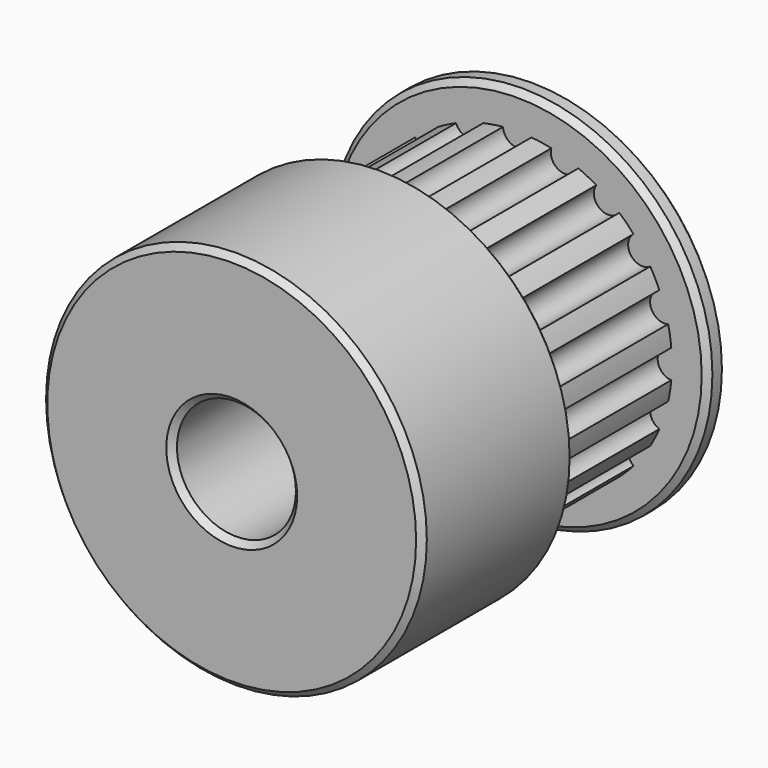
from build123d import *

# Parameters (mm, degrees)
F0_R     = 8
F1_DEPTH = 1
F2_R     = 6.5
F3_DEPTH = 7
F4_R     = 8
F5_DEPTH = 8
F6_R     = 0.6
F7_DEPTH = 7
F8_R     = 2.5
F9_DEPTH = 16.001
F10_SIZE = 0.25


with BuildPart() as f1:
    # F0 (on Front) → F1 (new body)
    with BuildSketch(Plane.XZ):
        Circle(F0_R)
    extrude(amount=F1_DEPTH)

    # F2 (on face) → F3 (join)
    with BuildSketch(Plane.XZ.offset(1)):
        Circle(F2_R)
    extrude(amount=F3_DEPTH)

    # F4 (on face) → F5 (join)
    with BuildSketch(Plane.XZ.offset(8)):
        Circle(F4_R)
    extrude(amount=F5_DEPTH)

    # F6 (on face) → F7 (cut, through all)
    with BuildSketch(Plane.XZ.offset(1)):
        with Locations((0, 6.5)):
            Circle(F6_R)
        with Locations((-2.00861, 6.181867)):
            Circle(F6_R)
        with Locations((-3.820604, 5.25861)):
            Circle(F6_R)
        with Locations((-5.25861, 3.820604)):
            Circle(F6_R)
        with Locations((-6.181867, 2.00861)):
            Circle(F6_R)
        with Locations((-6.5, 0)):
            Circle(F6_R)
        with Locations((-6.181867, -2.00861)):
            Circle(F6_R)
        with Locations((-5.25861, -3.820604)):
            Circle(F6_R)
        with Locations((-3.820604, -5.25861)):
            Circle(F6_R)
        with Locations((-2.00861, -6.181867)):
            Circle(F6_R)
        with Locations((0, -6.5)):
            Circle(F6_R)
        with Locations((2.00861, -6.181867)):
            Circle(F6_R)
        with Locations((3.820604, -5.25861)):
            Circle(F6_R)
        with Locations((5.25861, -3.820604)):
            Circle(F6_R)
        with Locations((6.181867, -2.00861)):
            Circle(F6_R)
        with Locations((6.5, 0)):
            Circle(F6_R)
        with Locations((6.181867, 2.00861)):
            Circle(F6_R)
        with Locations((5.25861, 3.820604)):
            Circle(F6_R)
        with Locations((3.820604, 5.25861)):
            Circle(F6_R)
        with Locations((2.00861, 6.181867)):
            Circle(F6_R)
    extrude(amount=F7_DEPTH, mode=Mode.SUBTRACT)

    # F8 (on face) → F9 (cut, through all)
    with BuildSketch(Plane.XZ.offset(16)):
        Circle(F8_R)
    extrude(amount=-F9_DEPTH, mode=Mode.SUBTRACT)

    # F10
    f10_edges = [f1.edges().sort_by_distance(p)[0] for p in [
        (8, -12, 0),
        (-8, -8, 0),
        (-8, -16, 0),
        (8, -0.5, 0),
        (-8, 0, 0),
        (-8, -1, 0),
        (-2.5, -16, 0),
        (2.5, -8, 0),
        (-2.5, 0, 0),
    ]]
    chamfer(f10_edges, length=F10_SIZE)


solid = f1.part
